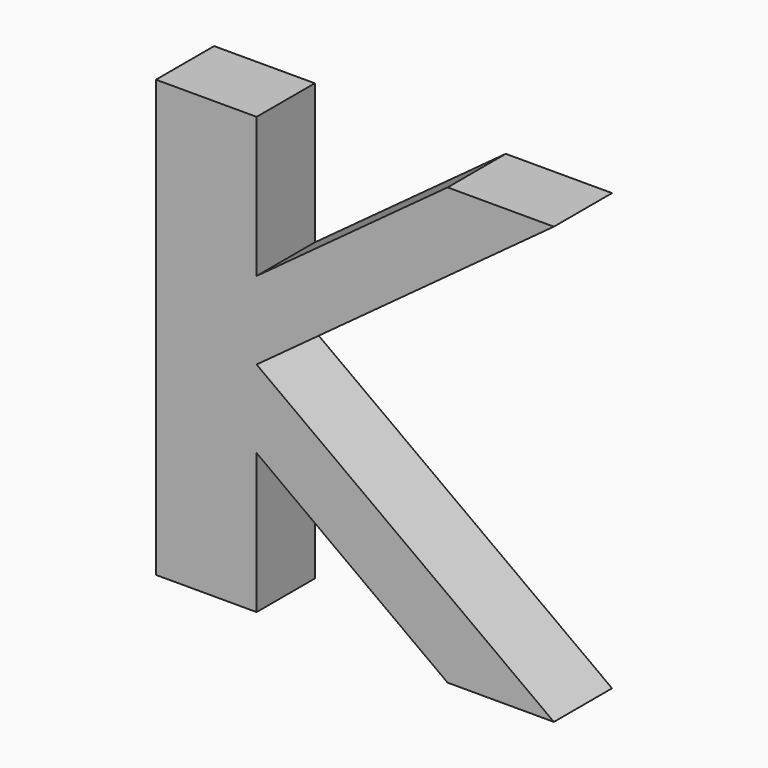
from build123d import *

# Parameters (mm, degrees)
F1_DEPTH = 12.7


with BuildPart() as f1:
    # F0 (on Front) → F1 (new body)
    with BuildSketch(Plane.XZ):
        Polygon((-17.580509, 76.139368), (-17.580509, 0), (0, 0), (0, 24.456346), (0, 38.069684), (0, 51.683022), (0, 76.139368), align=None)
        Polygon((0, 38.069684), (0, 24.456346), (33.347248, 0), (51.909603, 0), align=None)
        Polygon((0, 51.683022), (0, 38.069684), (51.909603, 76.139368), (33.347248, 76.139368), align=None)
    extrude(amount=F1_DEPTH)


solid = f1.part
